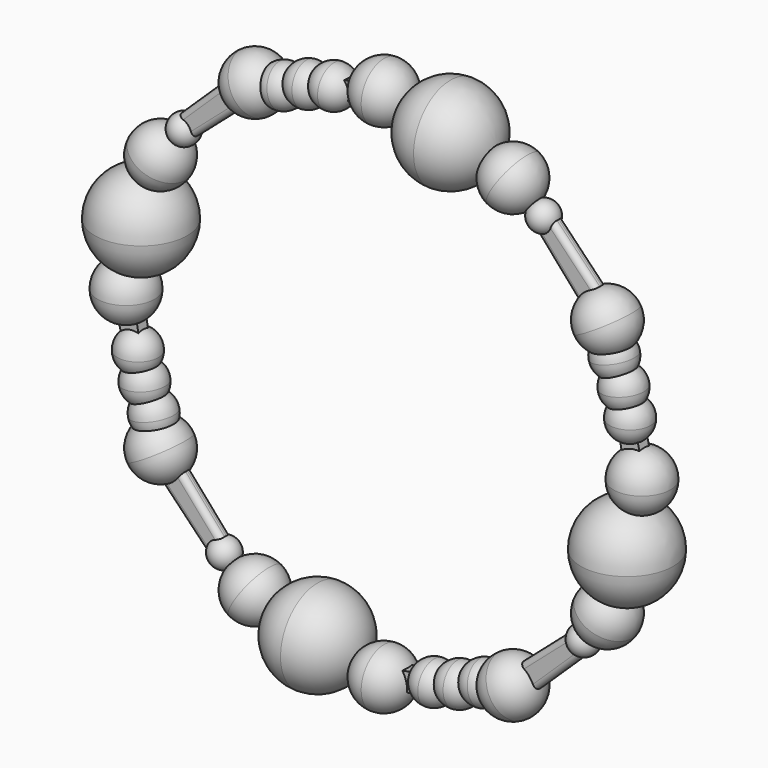
from build123d import *

# Parameters (mm, degrees)
F3_COUNT  = 12
F8_COUNT  = 4
F9_COUNT  = 3
F9_ANGLE  = 12
F10_COUNT = 4
F13_COUNT = 4
F15_DEPTH = 0.24
F16_R     = 0.2
F17_COUNT = 4
F19_DEPTH = 0.22
F20_COUNT = 4


with BuildPart() as f2:
    # F1 (on Front) → F2 (revolve)
    with BuildSketch(Plane.XZ):
        with BuildLine():
            ThreePointArc((9.4772661105, -1.0483119413), (10.218534593, -0.7412684825), (10.5255780518, 0))
            ThreePointArc((10.5255780518, 0), (10.218534593, 0.7412684825), (9.4772661105, 1.0483119413))
            Line((9.4772661105, 1.0483119413), (9.4772661105, -1.0483119413))
        make_face()
    revolve(axis=Axis((9.4772661105, 0, 0.2444271813), (0, 0, -1)))


with BuildPart() as f3_1:
    # F3: instance of F2
    add(f2.part.rotate(Axis((0, 0, 0), (0, -1, 0)), 1 * 360 / F3_COUNT))



with BuildPart() as f3_2:
    # F3: instance of F2
    add(f2.part.rotate(Axis((0, 0, 0), (0, -1, 0)), 2 * 360 / F3_COUNT))



with BuildPart() as f3_3:
    # F3: instance of F2
    add(f2.part.rotate(Axis((0, 0, 0), (0, -1, 0)), 3 * 360 / F3_COUNT))


with BuildPart() as f3_4:
    # F3: instance of F2
    add(f2.part.rotate(Axis((0, 0, 0), (0, -1, 0)), 4 * 360 / F3_COUNT))



with BuildPart() as f3_5:
    # F3: instance of F2
    add(f2.part.rotate(Axis((0, 0, 0), (0, -1, 0)), 5 * 360 / F3_COUNT))


with BuildPart() as f3_6:
    # F3: instance of F2
    add(f2.part.rotate(Axis((0, 0, 0), (0, -1, 0)), 6 * 360 / F3_COUNT))


with BuildPart() as f3_7:
    # F3: instance of F2
    add(f2.part.rotate(Axis((0, 0, 0), (0, -1, 0)), 7 * 360 / F3_COUNT))


with BuildPart() as f3_8:
    # F3: instance of F2
    add(f2.part.rotate(Axis((0, 0, 0), (0, -1, 0)), 8 * 360 / F3_COUNT))


with BuildPart() as f3_9:
    # F3: instance of F2
    add(f2.part.rotate(Axis((0, 0, 0), (0, -1, 0)), 9 * 360 / F3_COUNT))


with BuildPart() as f3_10:
    # F3: instance of F2
    add(f2.part.rotate(Axis((0, 0, 0), (0, -1, 0)), 10 * 360 / F3_COUNT))


with BuildPart() as f3_11:
    # F3: instance of F2
    add(f2.part.rotate(Axis((0, 0, 0), (0, -1, 0)), 11 * 360 / F3_COUNT))


with BuildPart() as f2_1:
    add(f2.part)

    add(f3_11.part)  # F5 merges F3_11
    # F4 (on Front) → F5 (revolve)
    with BuildSketch(Plane.XZ):
        with BuildLine():
            ThreePointArc((8.9280223474, -4.1401866038), (10.127528581, -3.6433348536), (10.6243803311, -2.44382862))
            ThreePointArc((10.6243803311, -2.44382862), (10.127528581, -1.2443223864), (8.9280223474, -0.7474706363))
            Line((8.9280223474, -0.7474706363), (8.9280223474, -4.1401866038))
        make_face()
    revolve(axis=Axis((8.9280223474, 0, -2.7087744093), (0, 0, -1)))


with BuildPart() as f7:
    # F6 (on Front) → F7 (revolve)
    with BuildSketch(Plane.XZ):
        with BuildLine():
            ThreePointArc((9.0414034203, 1.0910032095), (9.5717335062, 1.3106731236), (9.7914034203, 1.8410032095))
            ThreePointArc((9.7914034203, 1.8410032095), (9.5717335062, 2.3713332954), (9.0414034203, 2.5910032095))
            Line((9.0414034203, 2.5910032095), (9.0414034203, 1.0910032095))
        make_face()
    revolve(axis=Axis((9.0414034203, 0, 1.6257289681), (0, 0, -1)))


with BuildPart() as f3_2_1:
    add(f3_2.part)

    add(f3_3.part)  # F8 merges F3_3

    add(f3_5.part)  # F8 merges F3_5

    add(f3_6.part)  # F8 merges F3_6

    add(f3_8.part)  # F8 merges F3_8

    add(f3_9.part)  # F8 merges F3_9
    # F8: F2 ×4 about axis
    f8_axis = Axis((0, 0, 0), (0, -1, 0))
    for i in range(1, F8_COUNT):
        add(f2_1.part.rotate(f8_axis, i * 360 / F8_COUNT))

    # F13: F2 ×4 about axis
    f13_axis = Axis((0, 0, 0), (0, -1, 0))


with BuildPart() as f3_1_1:
    add(f3_1.part)

    add(f7.part)  # F9 merges F7
    # F9: F7 ×3 about axis
    f9_axis = Axis((0, 0, 0), (0, -1, 0))
    for i in range(1, F9_COUNT):
        add(f7.part.rotate(f9_axis, i * F9_ANGLE / (F9_COUNT - 1)))


with BuildPart() as f3_4_1:
    add(f3_4.part)

    add(f3_7.part)  # F10 merges F3_7

    add(f3_10.part)  # F10 merges F3_10
    # F10: F3_1 ×4 about axis
    f10_axis = Axis((0, 0, 0), (0, -1, 0))
    for i in range(1, F10_COUNT):
        add(f3_1_1.part.rotate(f10_axis, i * 360 / F10_COUNT))


with BuildPart() as f2_2:
    add(f2_1.part)

    # F11 (on Front) → F12 (revolve)
    with BuildSketch(Plane.XZ):
        with BuildLine():
            Line((7.3472443037, -6.3938509416), (7.3472443037, -5.3340679292))
            ThreePointArc((7.3472443037, -5.3340679292), (6.8173527975, -5.8639594354), (7.3472443037, -6.3938509416))
        make_face()
    revolve(axis=Axis((7.3472443037, 0, -5.9648375027), (0, 0, -1)))


with BuildPart() as f3_2_2:
    add(f3_2_1.part)
    for i in range(1, F13_COUNT):
        add(f2_2.part.rotate(f13_axis, i * 360 / F13_COUNT))


    add(f3_4_1.part)  # F15 merges F3_4
    # F14 (on Front) → F15 (join, symmetric)
    with BuildSketch(Plane.XZ):
        Polygon((-6.1499760486, -7.6356437057), (-5.6384955533, -7.0325545967), (-7.531462498, -4.8623583555), (-8.2340687513, -5.4752109572), align=None)
    extrude(amount=F15_DEPTH, both=True)

    # F16
    f16_edges = [f3_2_2.edges().sort_by_distance(p)[0] for p in [
        (-6.521687, -0.24, -6.020018),
        (-7.153966, -0.24, -6.594878),
        (-6.521687, 0.24, -6.020018),
        (-7.153966, 0.24, -6.594878),
    ]]
    fillet(f16_edges, radius=F16_R)


with BuildPart() as f2_3:
    add(f2_2.part)

    add(f3_1_1.part)  # F17 merges F3_1

    add(f3_2_2.part)  # F17 merges F3_2
    # F17: F3_2 ×4 about axis
    f17_axis = Axis((0, 0, 0), (0, -1, 0))
    for i in range(1, F17_COUNT):
        add(f3_2_2.part.rotate(f17_axis, i * 360 / F17_COUNT))

    # F18 (on Front) → F19 (join, symmetric)
    with BuildSketch(Plane.XZ):
        Polygon((-8.9370151982, -0.656470831), (-9.600979276, -0.834607461), (-9.4066485763, -1.7198924907), (-8.769675158, -1.5741443494), align=None)
    extrude(amount=F19_DEPTH, both=True)

    # F20: F2 ×4 about axis
    f20_axis = Axis((0, 0, 0), (0, -1, 0))


with BuildPart() as f2_4:
    add(f2_3.part)
    for i in range(1, F20_COUNT):
        add(f2_3.part.rotate(f20_axis, i * 360 / F20_COUNT))


solid = f2_4.part
